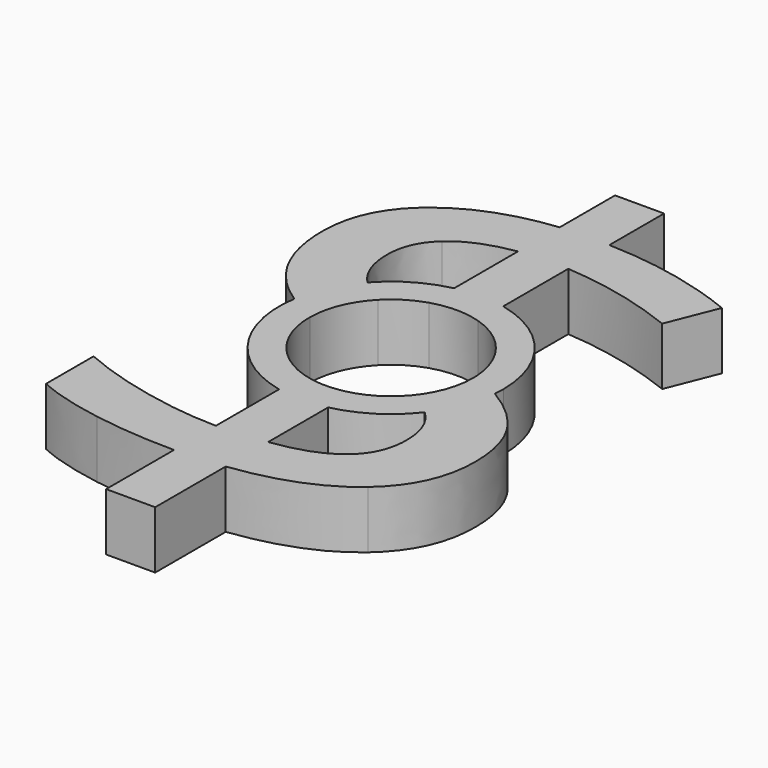
from build123d import *

# Parameters (mm, degrees)
F1_DEPTH = 7.7


with BuildPart() as f1:
    # F0 (on Top) → F1 (new body)
    with BuildSketch(Plane.XY):
        with BuildLine():
            add(Edge.make_bspline(
                [(22.0934028303, -3.5129354261), (22.2431585024, -3.6009011816), (22.3875659726, -3.6886724571)],
                knots=[0.9635630597, 0.9635630597, 0.9635630597, 1, 1, 1], degree=2))
            ThreePointArc((22.0934028303, -3.5129354261), (21.1126986682, -7.6642760258), (19.0031102486, -11.3717072292))
            add(Edge.make_bspline(
                [(19.2055998268, -11.5662766238), (19.1082850147, -11.4689618118), (19.0031102486, -11.3717072292)],
                knots=[0, 0, 0, 0.0430145471, 0.0430145471, 0.0430145471], degree=2))
            add(Edge.make_bspline(
                [(21.4679696184, -17.4907557905), (21.4679696184, -13.8286464155), (19.2055998268, -11.5662766238)],
                knots=[0, 0, 0, 1, 1, 1], degree=2))
            add(Edge.make_bspline(
                [(10.4328133684, -26.8494797488), (21.4679696184, -25.3358078738), (21.4679696184, -17.4907557905)],
                knots=[0, 0, 0, 1, 1, 1], degree=2))
            Line((10.4328133684, -26.8494797488), (10.4328133684, -16.8120794212))
            ThreePointArc((10.4328133684, -16.8120794212), (7.1531909726, -17.1750005821), (3.8735685768, -16.8120794212))
            Line((3.8735685768, -16.8120794212), (3.8735685768, -27.3703130821))
            add(Edge.make_bspline(
                [(-6.1687491316, -26.1740240196), (-0.6511710066, -27.3703130821), (3.8735685768, -27.3703130821)],
                knots=[0, 0, 0, 1, 1, 1], degree=2))
            add(Edge.make_bspline(
                [(-15.9180980899, -23.0897141238), (-11.6863272566, -24.9777349571), (-6.1687491316, -26.1740240196)],
                knots=[0, 0, 0, 1, 1, 1], degree=2))
            Line((-15.9180980899, -23.0897141238), (-15.9180980899, -31.0324224571))
            add(Edge.make_bspline(
                [(-7.1615876732, -33.4982427696), (-12.5001293399, -32.6111984988), (-15.9180980899, -31.0324224571)],
                knots=[0, 0, 0, 1, 1, 1], degree=2))
            add(Edge.make_bspline(
                [(3.8735685768, -34.3852870405), (-1.8230460066, -34.3852870405), (-7.1615876732, -33.4982427696)],
                knots=[0, 0, 0, 1, 1, 1], degree=2))
            Line((3.8735685768, -34.3852870405), (3.8735685768, -45.7296880821))
            Line((3.8735685768, -45.7296880821), (10.4328133684, -45.7296880821))
            Line((10.4328133684, -45.7296880821), (10.4328133684, -33.9295578738))
            add(Edge.make_bspline(
                [(24.9347664934, -28.257357353), (19.7427092018, -32.7576828738), (10.4328133684, -33.9295578738)],
                knots=[0, 0, 0, 1, 1, 1], degree=2))
            add(Edge.make_bspline(
                [(30.1268237851, -16.8397141238), (30.1268237851, -23.7570318321), (24.9347664934, -28.257357353)],
                knots=[0, 0, 0, 1, 1, 1], degree=2))
            add(Edge.make_bspline(
                [(28.2388029518, -9.2306646446), (30.1268237851, -12.3638026655), (30.1268237851, -16.8397141238)],
                knots=[0, 0, 0, 1, 1, 1], degree=2))
            add(Edge.make_bspline(
                [(22.3875659726, -3.6886724571), (26.3507821184, -6.0975266238), (28.2388029518, -9.2306646446)],
                knots=[0, 0, 0, 1, 1, 1], degree=2))
        make_face()
        with BuildLine():
            ThreePointArc((3.8735685768, 12.4620782569), (7.1531909726, 12.8249994179), (10.4328133684, 12.4620782569))
            Line((10.4328133684, 12.4620782569), (10.4328133684, 23.3458327512))
            add(Edge.make_bspline(
                [(25.8462248268, 19.7813796262), (18.2615894101, 22.7924473345), (10.4328133684, 23.3458327512)],
                knots=[0, 0, 0, 1, 1, 1], degree=2))
            Line((25.8462248268, 19.7813796262), (28.4992196184, 26.4545567095))
            add(Edge.make_bspline(
                [(10.4328133684, 30.2143223345), (19.7915373268, 29.9539056679), (28.4992196184, 26.4545567095)],
                knots=[0, 0, 0, 1, 1, 1], degree=2))
            Line((10.4328133684, 30.2143223345), (10.4328133684, 39.3614577512))
            Line((10.4328133684, 39.3614577512), (3.8735685768, 39.3614577512))
            Line((3.8735685768, 39.3614577512), (3.8735685768, 30.1166660845))
            add(Edge.make_bspline(
                [(-9.7820303816, 24.916470772), (-4.6225251732, 29.1889317095), (3.8735685768, 30.1166660845)],
                knots=[0, 0, 0, 1, 1, 1], degree=2))
            add(Edge.make_bspline(
                [(-14.9415355899, 13.9871087929), (-14.9415355899, 20.6440098345), (-9.7820303816, 24.916470772)],
                knots=[0, 0, 0, 1, 1, 1], degree=2))
            add(Edge.make_bspline(
                [(-10.7504548607, 2.6915358762), (-14.9415355899, 7.0697910845), (-14.9415355899, 13.9871087929)],
                knots=[0, 0, 0, 1, 1, 1], degree=2))
            add(Edge.make_bspline(
                [(-7.6647341063, 0.1550415541), (-9.489916275, 1.3747013925), (-10.7504548607, 2.6915358762)],
                knots=[0.6992330458, 0.6992330458, 0.6992330458, 1, 1, 1], degree=2))
            ThreePointArc((-7.6647341063, 0.1550415541), (-6.3961953475, 4.2603805526), (-4.0158241247, 7.8376465082))
            add(Edge.make_bspline(
                [(-4.0610017357, 7.8835931679), (-4.038574566, 7.8606073142), (-4.0158241247, 7.8376465082)],
                knots=[0, 0, 0, 0.0098072976, 0.0098072976, 0.0098072976], degree=2))
            add(Edge.make_bspline(
                [(-6.3477855899, 14.0847650429), (-6.3477855899, 10.2273431679), (-4.0610017357, 7.8835931679)],
                knots=[0, 0, 0, 1, 1, 1], degree=2))
            add(Edge.make_bspline(
                [(-3.7517569441, 19.9604160845), (-6.3477855899, 17.6003900429), (-6.3477855899, 14.0847650429)],
                knots=[0, 0, 0, 1, 1, 1], degree=2))
            add(Edge.make_bspline(
                [(3.8735685768, 23.1342442095), (-1.1557282982, 22.3204421262), (-3.7517569441, 19.9604160845)],
                knots=[0, 0, 0, 1, 1, 1], degree=2))
            Line((3.8735685768, 23.1342442095), (3.8735685768, 12.4620782569))
        make_face()
        with BuildLine():
            ThreePointArc((3.8735685768, -16.8120794212), (7.1531909726, -17.1750005821), (10.4328133684, -16.8120794212))
            Line((10.4328133684, -16.8120794212), (10.4328133684, -12.622324495))
            ThreePointArc((10.4328133684, -12.622324495), (7.1531909726, -13.1250005821), (3.8735685768, -12.622324495))
            Line((3.8735685768, -12.622324495), (3.8735685768, -16.8120794212))
        make_face()
        with BuildLine():
            Line((10.4328133684, 8.2723233307), (10.4328133684, 12.4620782569))
            ThreePointArc((10.4328133684, 12.4620782569), (7.1531909726, 12.8249994179), (3.8735685768, 12.4620782569))
            Line((3.8735685768, 12.4620782569), (3.8735685768, 8.2723233307))
            ThreePointArc((3.8735685768, 8.2723233307), (7.1531909726, 8.7749994179), (10.4328133684, 8.2723233307))
        make_face()
        with BuildLine():
            ThreePointArc((19.0031102486, -11.3717072292), (21.1126986682, -7.6642760258), (22.0934028303, -3.5129354261))
            add(Edge.make_bspline(
                [(18.0838779902, -1.5249380293), (20.4218137777, -2.5310521228), (22.0934028303, -3.5129354261)],
                knots=[0.5568499804, 0.5568499804, 0.5568499804, 0.9635630597, 0.9635630597, 0.9635630597], degree=2))
            ThreePointArc((18.0838779902, -1.5249380293), (18.0983616621, -1.849825893), (18.1031909726, -2.1750005821))
            ThreePointArc((18.1031909726, -2.1750005821), (17.4541754224, -5.8887883204), (15.584064148, -9.1623375213))
            add(Edge.make_bspline(
                [(19.0031102486, -11.3717072292), (17.8042308259, -10.2631093973), (15.584064148, -9.1623375213)],
                knots=[0.0430145471, 0.0430145471, 0.0430145471, 0.5333342058, 0.5333342058, 0.5333342058], degree=2))
        make_face()
        with BuildLine():
            add(Edge.make_bspline(
                [(-4.0158241247, 7.8376465082), (-2.8074328759, 6.6180817259), (-0.6870243927, 5.4691817173)],
                knots=[0.0098072976, 0.0098072976, 0.0098072976, 0.5307225792, 0.5307225792, 0.5307225792], degree=2))
            ThreePointArc((-4.0158241247, 7.8376465082), (-6.3961953475, 4.2603805526), (-7.6647341063, 0.1550415541))
            add(Edge.make_bspline(
                [(-3.7957490763, -2.0226463711), (-5.9728358213, -0.9755526541), (-7.6647341063, 0.1550415541)],
                knots=[0.4204295912, 0.4204295912, 0.4204295912, 0.6992330458, 0.6992330458, 0.6992330458], degree=2))
            ThreePointArc((-3.7957490763, -2.0226463711), (-2.960659052, 2.0217288206), (-0.6870243927, 5.4691817173))
        make_face()
        with BuildLine():
            add(Edge.make_bspline(
                [(-3.7957490763, -2.0226463711), (-5.9728358213, -0.9755526541), (-7.6647341063, 0.1550415541)],
                knots=[0.4204295912, 0.4204295912, 0.4204295912, 0.6992330458, 0.6992330458, 0.6992330458], degree=2))
            ThreePointArc((-7.6647341063, 0.1550415541), (-5.2504820599, -10.6099810387), (3.8735685768, -16.8120794212))
            Line((3.8735685768, -16.8120794212), (3.8735685768, -12.622324495))
            ThreePointArc((3.8735685768, -12.622324495), (-1.7181838585, -8.5938173427), (-3.7957490763, -2.0226463711))
        make_face()
        with BuildLine():
            ThreePointArc((10.4328133684, -16.8120794212), (15.1921691537, -14.8389190043), (19.0031102486, -11.3717072292))
            add(Edge.make_bspline(
                [(19.0031102486, -11.3717072292), (17.8042308259, -10.2631093973), (15.584064148, -9.1623375213)],
                knots=[0.0430145471, 0.0430145471, 0.0430145471, 0.5333342058, 0.5333342058, 0.5333342058], degree=2))
            ThreePointArc((15.584064148, -9.1623375213), (13.2586642627, -11.2648683427), (10.4328133684, -12.622324495))
            Line((10.4328133684, -12.622324495), (10.4328133684, -16.8120794212))
        make_face()
        with BuildLine():
            ThreePointArc((22.0934028303, -3.5129354261), (22.1382364825, -2.8446356075), (22.1531909726, -2.1750005821))
            ThreePointArc((22.1531909726, -2.1750005821), (18.8620409575, 7.2006504369), (10.4328133684, 12.4620782569))
            Line((10.4328133684, 12.4620782569), (10.4328133684, 8.2723233307))
            ThreePointArc((10.4328133684, 8.2723233307), (15.783359334, 4.5646354655), (18.0838779902, -1.5249380293))
            add(Edge.make_bspline(
                [(18.0838779902, -1.5249380293), (20.4218137777, -2.5310521228), (22.0934028303, -3.5129354261)],
                knots=[0.5568499804, 0.5568499804, 0.5568499804, 0.9635630597, 0.9635630597, 0.9635630597], degree=2))
        make_face()
        with BuildLine():
            Line((3.8735685768, 8.2723233307), (3.8735685768, 12.4620782569))
            ThreePointArc((3.8735685768, 12.4620782569), (-0.4321319343, 10.7657442341), (-4.0158241247, 7.8376465082))
            add(Edge.make_bspline(
                [(-4.0158241247, 7.8376465082), (-2.8074328759, 6.6180817259), (-0.6870243927, 5.4691817173)],
                knots=[0.0098072976, 0.0098072976, 0.0098072976, 0.5307225792, 0.5307225792, 0.5307225792], degree=2))
            ThreePointArc((-0.6870243927, 5.4691817173), (1.4193354909, 7.153740025), (3.8735685768, 8.2723233307))
        make_face()
    extrude(amount=F1_DEPTH)


solid = f1.part
